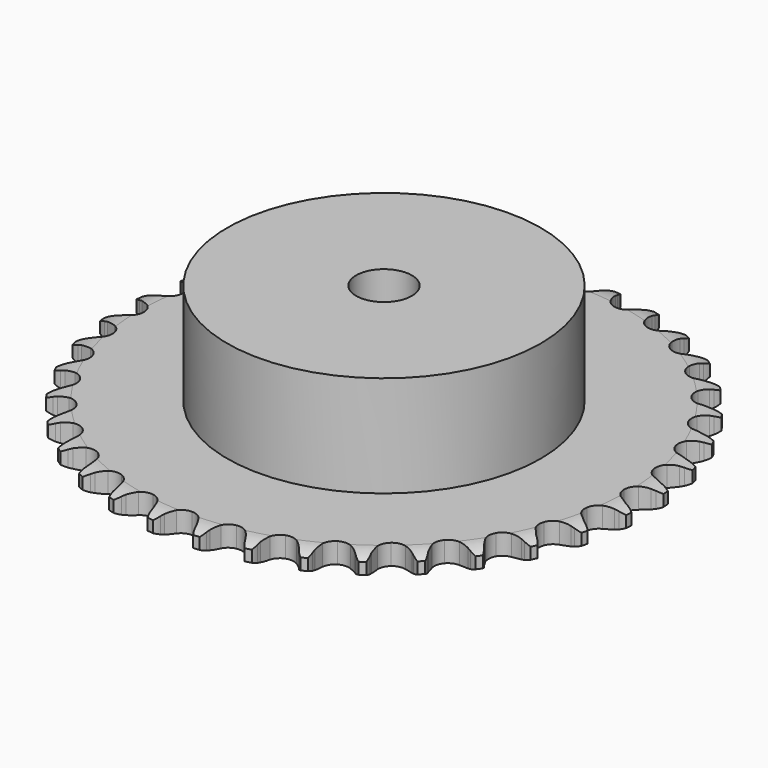
from build123d import *

# Parameters (mm, degrees)
PAD_DEPTH         = 5.9
SKETCH001_R       = 45
PAD001_DEPTH      = 35
SKETCH002_R       = 8
POCKET_DEPTH      = 0.001
POCKET_DEPTH_BACK = 35.001


with BuildPart() as part:
    # Sprocket → Pad (new body)
    with BuildSketch(Plane.XY):
        with BuildLine():
            ThreePointArc((-6.708023, 76.673049), (-5.645526, 75.493021), (-4.91278, 74.084317))
            Line((-4.91278, 74.084317), (-4.534736, 73.058049))
            ThreePointArc((-4.534736, 73.058049), (-3.936112, 71.7343), (-3.154329, 70.509768))
            ThreePointArc((-3.154329, 70.509768), (-1.764892, 69.343891), (0, 68.925604))
            ThreePointArc((0, 68.925604), (1.764892, 69.343891), (3.154329, 70.509768))
            ThreePointArc((3.154329, 70.509768), (3.936112, 71.7343), (4.534736, 73.058049))
            Line((4.534736, 73.058049), (4.91278, 74.084317))
            ThreePointArc((4.91278, 74.084317), (5.645526, 75.493021), (6.708023, 76.673049))
            ThreePointArc((6.708023, 76.673049), (7.549468, 75.326448), (8.026462, 73.811905))
            Line((8.026462, 73.811905), (8.220554, 72.735582))
            ThreePointArc((8.220554, 72.735582), (8.580216, 71.327993), (9.137485, 69.98631))
            ThreePointArc((9.137485, 69.98631), (10.303361, 68.596872), (11.968806, 67.878469))
            ThreePointArc((11.968806, 67.878469), (13.779519, 67.983931), (15.350301, 68.890823))
            Line((15.350301, 68.890823), (17.15224, 71.160685))
            ThreePointArc((17.15224, 71.160685), (17.414735, 71.640632), (17.702751, 72.105714))
            ThreePointArc((17.702751, 72.105714), (18.668983, 73.365778), (19.920248, 74.343377))
            ThreePointArc((19.920248, 74.343377), (20.515075, 72.871119), (20.721825, 71.296755))
            Line((20.721825, 71.296755), (20.726067, 70.203081))
            ThreePointArc((20.726067, 70.203081), (20.83584, 68.754422), (21.151661, 67.336353))
            ThreePointArc((21.151661, 67.336353), (22.058552, 65.765571), (23.573945, 64.768882))
            ThreePointArc((23.573945, 64.768882), (25.375463, 64.558314), (27.079861, 65.178664))
            Line((27.079861, 65.178664), (29.248582, 67.101139))
            ThreePointArc((29.248582, 67.101139), (29.590432, 67.528213), (29.954832, 67.936216))
            ThreePointArc((29.954832, 67.936216), (31.125193, 69.009352), (32.527207, 69.75482))
            ThreePointArc((32.527207, 69.75482), (32.857342, 68.201637), (32.787566, 66.61529))
            Line((32.787566, 66.61529), (32.601828, 65.537494))
            ThreePointArc((32.601828, 65.537494), (32.458376, 64.091782), (32.523155, 62.640415))
            ThreePointArc((32.523155, 62.640415), (33.143505, 60.936017), (34.462802, 59.691324))
            ThreePointArc((34.462802, 59.691324), (36.200386, 59.171126), (37.986613, 59.486085))
            Line((37.986613, 59.486085), (40.456221, 61.002759))
            ThreePointArc((40.456221, 61.002759), (40.867038, 61.363983), (41.296751, 61.70251))
            ThreePointArc((41.296751, 61.70251), (42.63568, 62.556111), (44.145843, 63.046797))
            ThreePointArc((44.145843, 63.046797), (44.201255, 61.459884), (43.857073, 59.909753))
            Line((43.857073, 59.909753), (43.487, 58.880584))
            ThreePointArc((43.487, 58.880584), (43.094682, 57.481746), (42.906449, 56.04118))
            ThreePointArc((42.906449, 56.04118), (43.221409, 54.254953), (44.304524, 52.800076))
            ThreePointArc((44.304524, 52.800076), (45.925379, 51.986052), (47.739162, 51.986052))
            Line((47.739162, 51.986052), (50.434618, 53.050841))
            ThreePointArc((50.434618, 53.050841), (50.901919, 53.33524), (51.383889, 53.594005))
            ThreePointArc((51.383889, 53.594005), (52.850702, 54.202136), (54.42313, 54.42313))
            ThreePointArc((54.42313, 54.42313), (54.202136, 52.850702), (53.594005, 51.383889))
            Line((53.594005, 51.383889), (53.050841, 50.434618))
            ThreePointArc((53.050841, 50.434618), (52.421577, 49.125156), (51.986052, 47.739162))
            ThreePointArc((51.986052, 47.739162), (51.986052, 45.925379), (52.800076, 44.304524))
            ThreePointArc((52.800076, 44.304524), (54.254953, 43.221409), (56.04118, 42.906449))
            Line((56.04118, 42.906449), (58.880584, 43.487))
            ThreePointArc((58.880584, 43.487), (59.390172, 43.685932), (59.909753, 43.857073))
            ThreePointArc((59.909753, 43.857073), (61.459884, 44.201255), (63.046797, 44.145843))
            ThreePointArc((63.046797, 44.145843), (62.556111, 42.63568), (61.70251, 41.296751))
            Line((61.70251, 41.296751), (61.002759, 40.456221))
            ThreePointArc((61.002759, 40.456221), (60.15567, 39.275923), (59.486085, 37.986613))
            ThreePointArc((59.486085, 37.986613), (59.171126, 36.200386), (59.691324, 34.462802))
            ThreePointArc((59.691324, 34.462802), (60.936017, 33.143505), (62.640415, 32.523155))
            Line((62.640415, 32.523155), (65.537494, 32.601828))
            ThreePointArc((65.537494, 32.601828), (66.073884, 32.70925), (66.61529, 32.787566))
            ThreePointArc((66.61529, 32.787566), (68.201637, 32.857342), (69.75482, 32.527207))
            ThreePointArc((69.75482, 32.527207), (69.009352, 31.125193), (67.936216, 29.954832))
            Line((67.936216, 29.954832), (67.101139, 29.248582))
            ThreePointArc((67.101139, 29.248582), (66.061962, 28.233311), (65.178664, 27.079861))
            ThreePointArc((65.178664, 27.079861), (64.558314, 25.375463), (64.768882, 23.573945))
            ThreePointArc((64.768882, 23.573945), (65.765571, 22.058552), (67.336353, 21.151661))
            Line((67.336353, 21.151661), (70.203081, 20.726067))
            ThreePointArc((70.203081, 20.726067), (70.749975, 20.738713), (71.296755, 20.721825))
            ThreePointArc((71.296755, 20.721825), (72.871119, 20.515075), (74.343377, 19.920248))
            ThreePointArc((74.343377, 19.920248), (73.365778, 18.668983), (72.105714, 17.702751))
            Line((72.105714, 17.702751), (71.160685, 17.15224))
            ThreePointArc((71.160685, 17.15224), (69.960996, 16.332844), (68.890823, 15.350301))
            ThreePointArc((68.890823, 15.350301), (67.983931, 13.779519), (67.878469, 11.968806))
            ThreePointArc((67.878469, 11.968806), (68.596872, 10.303361), (69.98631, 9.137485))
            Line((69.98631, 9.137485), (72.735582, 8.220554))
            ThreePointArc((72.735582, 8.220554), (73.276364, 8.138041), (73.811905, 8.026462))
            ThreePointArc((73.811905, 8.026462), (75.326448, 7.549468), (76.673049, 6.708023))
            ThreePointArc((76.673049, 6.708023), (75.493021, 5.645526), (74.084317, 4.91278))
            Line((74.084317, 4.91278), (73.058049, 4.534736))
            ThreePointArc((73.058049, 4.534736), (71.7343, 3.936112), (70.509768, 3.154329))
            ThreePointArc((70.509768, 3.154329), (69.343891, 1.764892), (68.925604, 0))
            ThreePointArc((68.925604, 0), (69.343891, -1.764892), (70.509768, -3.154329))
            Line((70.509768, -3.154329), (73.058049, -4.534736))
            ThreePointArc((73.058049, -4.534736), (73.576287, -4.709901), (74.084317, -4.91278))
            ThreePointArc((74.084317, -4.91278), (75.493021, -5.645526), (76.673049, -6.708023))
            ThreePointArc((76.673049, -6.708023), (75.326448, -7.549468), (73.811905, -8.026462))
            Line((73.811905, -8.026462), (72.735582, -8.220554))
            ThreePointArc((72.735582, -8.220554), (71.327993, -8.580216), (69.98631, -9.137485))
            ThreePointArc((69.98631, -9.137485), (68.596872, -10.303361), (67.878469, -11.968806))
            ThreePointArc((67.878469, -11.968806), (67.983931, -13.779519), (68.890823, -15.350301))
            Line((68.890823, -15.350301), (71.160685, -17.15224))
            ThreePointArc((71.160685, -17.15224), (71.640632, -17.414735), (72.105714, -17.702751))
            ThreePointArc((72.105714, -17.702751), (73.365778, -18.668983), (74.343377, -19.920248))
            ThreePointArc((74.343377, -19.920248), (72.871119, -20.515075), (71.296755, -20.721825))
            Line((71.296755, -20.721825), (70.203081, -20.726067))
            ThreePointArc((70.203081, -20.726067), (68.754422, -20.83584), (67.336353, -21.151661))
            ThreePointArc((67.336353, -21.151661), (65.765571, -22.058552), (64.768882, -23.573945))
            ThreePointArc((64.768882, -23.573945), (64.558314, -25.375463), (65.178664, -27.079861))
            Line((65.178664, -27.079861), (67.101139, -29.248582))
            ThreePointArc((67.101139, -29.248582), (67.528213, -29.590432), (67.936216, -29.954832))
            ThreePointArc((67.936216, -29.954832), (69.009352, -31.125193), (69.75482, -32.527207))
            ThreePointArc((69.75482, -32.527207), (68.201637, -32.857342), (66.61529, -32.787566))
            Line((66.61529, -32.787566), (65.537494, -32.601828))
            ThreePointArc((65.537494, -32.601828), (64.091782, -32.458376), (62.640415, -32.523155))
            ThreePointArc((62.640415, -32.523155), (60.936017, -33.143505), (59.691324, -34.462802))
            ThreePointArc((59.691324, -34.462802), (59.171126, -36.200386), (59.486085, -37.986613))
            Line((59.486085, -37.986613), (61.002759, -40.456221))
            ThreePointArc((61.002759, -40.456221), (61.363983, -40.867038), (61.70251, -41.296751))
            ThreePointArc((61.70251, -41.296751), (62.556111, -42.63568), (63.046797, -44.145843))
            ThreePointArc((63.046797, -44.145843), (61.459884, -44.201255), (59.909753, -43.857073))
            Line((59.909753, -43.857073), (58.880584, -43.487))
            ThreePointArc((58.880584, -43.487), (57.481746, -43.094682), (56.04118, -42.906449))
            ThreePointArc((56.04118, -42.906449), (54.254953, -43.221409), (52.800076, -44.304524))
            ThreePointArc((52.800076, -44.304524), (51.986052, -45.925379), (51.986052, -47.739162))
            Line((51.986052, -47.739162), (53.050841, -50.434618))
            ThreePointArc((53.050841, -50.434618), (53.33524, -50.901919), (53.594005, -51.383889))
            ThreePointArc((53.594005, -51.383889), (54.202136, -52.850702), (54.42313, -54.42313))
            ThreePointArc((54.42313, -54.42313), (52.850702, -54.202136), (51.383889, -53.594005))
            Line((51.383889, -53.594005), (50.434618, -53.050841))
            ThreePointArc((50.434618, -53.050841), (49.125156, -52.421577), (47.739162, -51.986052))
            ThreePointArc((47.739162, -51.986052), (45.925379, -51.986052), (44.304524, -52.800076))
            ThreePointArc((44.304524, -52.800076), (43.221409, -54.254953), (42.906449, -56.04118))
            Line((42.906449, -56.04118), (43.487, -58.880584))
            ThreePointArc((43.487, -58.880584), (43.685932, -59.390172), (43.857073, -59.909753))
            ThreePointArc((43.857073, -59.909753), (44.201255, -61.459884), (44.145843, -63.046797))
            ThreePointArc((44.145843, -63.046797), (42.63568, -62.556111), (41.296751, -61.70251))
            Line((41.296751, -61.70251), (40.456221, -61.002759))
            ThreePointArc((40.456221, -61.002759), (39.275923, -60.15567), (37.986613, -59.486085))
            ThreePointArc((37.986613, -59.486085), (36.200386, -59.171126), (34.462802, -59.691324))
            ThreePointArc((34.462802, -59.691324), (33.143505, -60.936017), (32.523155, -62.640415))
            Line((32.523155, -62.640415), (32.601828, -65.537494))
            ThreePointArc((32.601828, -65.537494), (32.70925, -66.073884), (32.787566, -66.61529))
            ThreePointArc((32.787566, -66.61529), (32.857342, -68.201637), (32.527207, -69.75482))
            ThreePointArc((32.527207, -69.75482), (31.125193, -69.009352), (29.954832, -67.936216))
            Line((29.954832, -67.936216), (29.248582, -67.101139))
            ThreePointArc((29.248582, -67.101139), (28.233311, -66.061962), (27.079861, -65.178664))
            ThreePointArc((27.079861, -65.178664), (25.375463, -64.558314), (23.573945, -64.768882))
            ThreePointArc((23.573945, -64.768882), (22.058552, -65.765571), (21.151661, -67.336353))
            Line((21.151661, -67.336353), (20.726067, -70.203081))
            ThreePointArc((20.726067, -70.203081), (20.738713, -70.749975), (20.721825, -71.296755))
            ThreePointArc((20.721825, -71.296755), (20.515075, -72.871119), (19.920248, -74.343377))
            ThreePointArc((19.920248, -74.343377), (18.668983, -73.365778), (17.702751, -72.105714))
            Line((17.702751, -72.105714), (17.15224, -71.160685))
            ThreePointArc((17.15224, -71.160685), (16.332844, -69.960996), (15.350301, -68.890823))
            ThreePointArc((15.350301, -68.890823), (13.779519, -67.983931), (11.968806, -67.878469))
            ThreePointArc((11.968806, -67.878469), (10.303361, -68.596872), (9.137485, -69.98631))
            Line((9.137485, -69.98631), (8.220554, -72.735582))
            ThreePointArc((8.220554, -72.735582), (8.138041, -73.276364), (8.026462, -73.811905))
            ThreePointArc((8.026462, -73.811905), (7.549468, -75.326448), (6.708023, -76.673049))
            ThreePointArc((6.708023, -76.673049), (5.645526, -75.493021), (4.91278, -74.084317))
            Line((4.91278, -74.084317), (4.534736, -73.058049))
            ThreePointArc((4.534736, -73.058049), (3.936112, -71.7343), (3.154329, -70.509768))
            ThreePointArc((3.154329, -70.509768), (1.764892, -69.343891), (0, -68.925604))
            ThreePointArc((0, -68.925604), (-1.764892, -69.343891), (-3.154329, -70.509768))
            Line((-3.154329, -70.509768), (-4.534736, -73.058049))
            ThreePointArc((-4.534736, -73.058049), (-4.709901, -73.576287), (-4.91278, -74.084317))
            ThreePointArc((-4.91278, -74.084317), (-5.645526, -75.493021), (-6.708023, -76.673049))
            ThreePointArc((-6.708023, -76.673049), (-7.549468, -75.326448), (-8.026462, -73.811905))
            Line((-8.026462, -73.811905), (-8.220554, -72.735582))
            ThreePointArc((-8.220554, -72.735582), (-8.580216, -71.327993), (-9.137485, -69.98631))
            ThreePointArc((-9.137485, -69.98631), (-10.303361, -68.596872), (-11.968806, -67.878469))
            ThreePointArc((-11.968806, -67.878469), (-13.779519, -67.983931), (-15.350301, -68.890823))
            Line((-15.350301, -68.890823), (-17.15224, -71.160685))
            ThreePointArc((-17.15224, -71.160685), (-17.414735, -71.640632), (-17.702751, -72.105714))
            ThreePointArc((-17.702751, -72.105714), (-18.668983, -73.365778), (-19.920248, -74.343377))
            ThreePointArc((-19.920248, -74.343377), (-20.515075, -72.871119), (-20.721825, -71.296755))
            Line((-20.721825, -71.296755), (-20.726067, -70.203081))
            ThreePointArc((-20.726067, -70.203081), (-20.83584, -68.754422), (-21.151661, -67.336353))
            ThreePointArc((-21.151661, -67.336353), (-22.058552, -65.765571), (-23.573945, -64.768882))
            ThreePointArc((-23.573945, -64.768882), (-25.375463, -64.558314), (-27.079861, -65.178664))
            Line((-27.079861, -65.178664), (-29.248582, -67.101139))
            ThreePointArc((-29.248582, -67.101139), (-29.590432, -67.528213), (-29.954832, -67.936216))
            ThreePointArc((-29.954832, -67.936216), (-31.125193, -69.009352), (-32.527207, -69.75482))
            ThreePointArc((-32.527207, -69.75482), (-32.857342, -68.201637), (-32.787566, -66.61529))
            Line((-32.787566, -66.61529), (-32.601828, -65.537494))
            ThreePointArc((-32.601828, -65.537494), (-32.458376, -64.091782), (-32.523155, -62.640415))
            ThreePointArc((-32.523155, -62.640415), (-33.143505, -60.936017), (-34.462802, -59.691324))
            ThreePointArc((-34.462802, -59.691324), (-36.200386, -59.171126), (-37.986613, -59.486085))
            Line((-37.986613, -59.486085), (-40.456221, -61.002759))
            ThreePointArc((-40.456221, -61.002759), (-40.867038, -61.363983), (-41.296751, -61.70251))
            ThreePointArc((-41.296751, -61.70251), (-42.63568, -62.556111), (-44.145843, -63.046797))
            ThreePointArc((-44.145843, -63.046797), (-44.201255, -61.459884), (-43.857073, -59.909753))
            Line((-43.857073, -59.909753), (-43.487, -58.880584))
            ThreePointArc((-43.487, -58.880584), (-43.094682, -57.481746), (-42.906449, -56.04118))
            ThreePointArc((-42.906449, -56.04118), (-43.221409, -54.254953), (-44.304524, -52.800076))
            ThreePointArc((-44.304524, -52.800076), (-45.925379, -51.986052), (-47.739162, -51.986052))
            Line((-47.739162, -51.986052), (-50.434618, -53.050841))
            ThreePointArc((-50.434618, -53.050841), (-50.901919, -53.33524), (-51.383889, -53.594005))
            ThreePointArc((-51.383889, -53.594005), (-52.850702, -54.202136), (-54.42313, -54.42313))
            ThreePointArc((-54.42313, -54.42313), (-54.202136, -52.850702), (-53.594005, -51.383889))
            Line((-53.594005, -51.383889), (-53.050841, -50.434618))
            ThreePointArc((-53.050841, -50.434618), (-52.421577, -49.125156), (-51.986052, -47.739162))
            ThreePointArc((-51.986052, -47.739162), (-51.986052, -45.925379), (-52.800076, -44.304524))
            ThreePointArc((-52.800076, -44.304524), (-54.254953, -43.221409), (-56.04118, -42.906449))
            Line((-56.04118, -42.906449), (-58.880584, -43.487))
            ThreePointArc((-58.880584, -43.487), (-59.390172, -43.685932), (-59.909753, -43.857073))
            ThreePointArc((-59.909753, -43.857073), (-61.459884, -44.201255), (-63.046797, -44.145843))
            ThreePointArc((-63.046797, -44.145843), (-62.556111, -42.63568), (-61.70251, -41.296751))
            Line((-61.70251, -41.296751), (-61.002759, -40.456221))
            ThreePointArc((-61.002759, -40.456221), (-60.15567, -39.275923), (-59.486085, -37.986613))
            ThreePointArc((-59.486085, -37.986613), (-59.171126, -36.200386), (-59.691324, -34.462802))
            ThreePointArc((-59.691324, -34.462802), (-60.936017, -33.143505), (-62.640415, -32.523155))
            Line((-62.640415, -32.523155), (-65.537494, -32.601828))
            ThreePointArc((-65.537494, -32.601828), (-66.073884, -32.70925), (-66.61529, -32.787566))
            ThreePointArc((-66.61529, -32.787566), (-68.201637, -32.857342), (-69.75482, -32.527207))
            ThreePointArc((-69.75482, -32.527207), (-69.009352, -31.125193), (-67.936216, -29.954832))
            Line((-67.936216, -29.954832), (-67.101139, -29.248582))
            ThreePointArc((-67.101139, -29.248582), (-66.061962, -28.233311), (-65.178664, -27.079861))
            ThreePointArc((-65.178664, -27.079861), (-64.558314, -25.375463), (-64.768882, -23.573945))
            ThreePointArc((-64.768882, -23.573945), (-65.765571, -22.058552), (-67.336353, -21.151661))
            Line((-67.336353, -21.151661), (-70.203081, -20.726067))
            ThreePointArc((-70.203081, -20.726067), (-70.749975, -20.738713), (-71.296755, -20.721825))
            ThreePointArc((-71.296755, -20.721825), (-72.871119, -20.515075), (-74.343377, -19.920248))
            ThreePointArc((-74.343377, -19.920248), (-73.365778, -18.668983), (-72.105714, -17.702751))
            Line((-72.105714, -17.702751), (-71.160685, -17.15224))
            ThreePointArc((-71.160685, -17.15224), (-69.960996, -16.332844), (-68.890823, -15.350301))
            ThreePointArc((-68.890823, -15.350301), (-67.983931, -13.779519), (-67.878469, -11.968806))
            ThreePointArc((-67.878469, -11.968806), (-68.596872, -10.303361), (-69.98631, -9.137485))
            Line((-69.98631, -9.137485), (-72.735582, -8.220554))
            ThreePointArc((-72.735582, -8.220554), (-73.276364, -8.138041), (-73.811905, -8.026462))
            ThreePointArc((-73.811905, -8.026462), (-75.326448, -7.549468), (-76.673049, -6.708023))
            ThreePointArc((-76.673049, -6.708023), (-75.493021, -5.645526), (-74.084317, -4.91278))
            Line((-74.084317, -4.91278), (-73.058049, -4.534736))
            ThreePointArc((-73.058049, -4.534736), (-71.7343, -3.936112), (-70.509768, -3.154329))
            ThreePointArc((-70.509768, -3.154329), (-69.343891, -1.764892), (-68.925604, 0))
            ThreePointArc((-68.925604, 0), (-69.343891, 1.764892), (-70.509768, 3.154329))
            Line((-70.509768, 3.154329), (-73.058049, 4.534736))
            ThreePointArc((-73.058049, 4.534736), (-73.576287, 4.709901), (-74.084317, 4.91278))
            ThreePointArc((-74.084317, 4.91278), (-75.493021, 5.645526), (-76.673049, 6.708023))
            ThreePointArc((-76.673049, 6.708023), (-75.326448, 7.549468), (-73.811905, 8.026462))
            Line((-73.811905, 8.026462), (-72.735582, 8.220554))
            ThreePointArc((-72.735582, 8.220554), (-71.327993, 8.580216), (-69.98631, 9.137485))
            ThreePointArc((-69.98631, 9.137485), (-68.596872, 10.303361), (-67.878469, 11.968806))
            ThreePointArc((-67.878469, 11.968806), (-67.983931, 13.779519), (-68.890823, 15.350301))
            Line((-68.890823, 15.350301), (-71.160685, 17.15224))
            ThreePointArc((-71.160685, 17.15224), (-71.640632, 17.414735), (-72.105714, 17.702751))
            ThreePointArc((-72.105714, 17.702751), (-73.365778, 18.668983), (-74.343377, 19.920248))
            ThreePointArc((-74.343377, 19.920248), (-72.871119, 20.515075), (-71.296755, 20.721825))
            Line((-71.296755, 20.721825), (-70.203081, 20.726067))
            ThreePointArc((-70.203081, 20.726067), (-68.754422, 20.83584), (-67.336353, 21.151661))
            ThreePointArc((-67.336353, 21.151661), (-65.765571, 22.058552), (-64.768882, 23.573945))
            ThreePointArc((-64.768882, 23.573945), (-64.558314, 25.375463), (-65.178664, 27.079861))
            Line((-65.178664, 27.079861), (-67.101139, 29.248582))
            ThreePointArc((-67.101139, 29.248582), (-67.528213, 29.590432), (-67.936216, 29.954832))
            ThreePointArc((-67.936216, 29.954832), (-69.009352, 31.125193), (-69.75482, 32.527207))
            ThreePointArc((-69.75482, 32.527207), (-68.201637, 32.857342), (-66.61529, 32.787566))
            Line((-66.61529, 32.787566), (-65.537494, 32.601828))
            ThreePointArc((-65.537494, 32.601828), (-64.091782, 32.458376), (-62.640415, 32.523155))
            ThreePointArc((-62.640415, 32.523155), (-60.936017, 33.143505), (-59.691324, 34.462802))
            ThreePointArc((-59.691324, 34.462802), (-59.171126, 36.200386), (-59.486085, 37.986613))
            Line((-59.486085, 37.986613), (-61.002759, 40.456221))
            ThreePointArc((-61.002759, 40.456221), (-61.363983, 40.867038), (-61.70251, 41.296751))
            ThreePointArc((-61.70251, 41.296751), (-62.556111, 42.63568), (-63.046797, 44.145843))
            ThreePointArc((-63.046797, 44.145843), (-61.459884, 44.201255), (-59.909753, 43.857073))
            Line((-59.909753, 43.857073), (-58.880584, 43.487))
            ThreePointArc((-58.880584, 43.487), (-57.481746, 43.094682), (-56.04118, 42.906449))
            ThreePointArc((-56.04118, 42.906449), (-54.254953, 43.221409), (-52.800076, 44.304524))
            ThreePointArc((-52.800076, 44.304524), (-51.986052, 45.925379), (-51.986052, 47.739162))
            Line((-51.986052, 47.739162), (-53.050841, 50.434618))
            ThreePointArc((-53.050841, 50.434618), (-53.33524, 50.901919), (-53.594005, 51.383889))
            ThreePointArc((-53.594005, 51.383889), (-54.202136, 52.850702), (-54.42313, 54.42313))
            ThreePointArc((-54.42313, 54.42313), (-52.850702, 54.202136), (-51.383889, 53.594005))
            Line((-51.383889, 53.594005), (-50.434618, 53.050841))
            ThreePointArc((-50.434618, 53.050841), (-49.125156, 52.421577), (-47.739162, 51.986052))
            ThreePointArc((-47.739162, 51.986052), (-45.925379, 51.986052), (-44.304524, 52.800076))
            ThreePointArc((-44.304524, 52.800076), (-43.221409, 54.254953), (-42.906449, 56.04118))
            Line((-42.906449, 56.04118), (-43.487, 58.880584))
            ThreePointArc((-43.487, 58.880584), (-43.685932, 59.390172), (-43.857073, 59.909753))
            ThreePointArc((-43.857073, 59.909753), (-44.201255, 61.459884), (-44.145843, 63.046797))
            ThreePointArc((-44.145843, 63.046797), (-42.63568, 62.556111), (-41.296751, 61.70251))
            Line((-41.296751, 61.70251), (-40.456221, 61.002759))
            ThreePointArc((-40.456221, 61.002759), (-39.275923, 60.15567), (-37.986613, 59.486085))
            ThreePointArc((-37.986613, 59.486085), (-36.200386, 59.171126), (-34.462802, 59.691324))
            ThreePointArc((-34.462802, 59.691324), (-33.143505, 60.936017), (-32.523155, 62.640415))
            Line((-32.523155, 62.640415), (-32.601828, 65.537494))
            ThreePointArc((-32.601828, 65.537494), (-32.70925, 66.073884), (-32.787566, 66.61529))
            ThreePointArc((-32.787566, 66.61529), (-32.857342, 68.201637), (-32.527207, 69.75482))
            ThreePointArc((-32.527207, 69.75482), (-31.125193, 69.009352), (-29.954832, 67.936216))
            Line((-29.954832, 67.936216), (-29.248582, 67.101139))
            ThreePointArc((-29.248582, 67.101139), (-28.233311, 66.061962), (-27.079861, 65.178664))
            ThreePointArc((-27.079861, 65.178664), (-25.375463, 64.558314), (-23.573945, 64.768882))
            ThreePointArc((-23.573945, 64.768882), (-22.058552, 65.765571), (-21.151661, 67.336353))
            Line((-21.151661, 67.336353), (-20.726067, 70.203081))
            ThreePointArc((-20.726067, 70.203081), (-20.738713, 70.749975), (-20.721825, 71.296755))
            ThreePointArc((-20.721825, 71.296755), (-20.515075, 72.871119), (-19.920248, 74.343377))
            ThreePointArc((-19.920248, 74.343377), (-18.668983, 73.365778), (-17.702751, 72.105714))
            Line((-17.702751, 72.105714), (-17.15224, 71.160685))
            ThreePointArc((-17.15224, 71.160685), (-16.332844, 69.960996), (-15.350301, 68.890823))
            ThreePointArc((-15.350301, 68.890823), (-13.779519, 67.983931), (-11.968806, 67.878469))
            ThreePointArc((-11.968806, 67.878469), (-10.303361, 68.596872), (-9.137485, 69.98631))
            Line((-9.137485, 69.98631), (-8.220554, 72.735582))
            ThreePointArc((-8.220554, 72.735582), (-8.138041, 73.276364), (-8.026462, 73.811905))
            ThreePointArc((-8.026462, 73.811905), (-7.549468, 75.326448), (-6.708023, 76.673049))
        make_face()
    extrude(amount=PAD_DEPTH)

    # Sketch → Groove (revolve, cut)
    with BuildSketch(Plane.XZ):
        with BuildLine():
            Line((70.183431, 0), (75.85, 0))
            Line((81.516569, 0), (75.85, 0))
            Line((81.516569, 5.9), (81.516569, 0))
            Line((75.85, 5.9), (81.516569, 5.9))
            Line((70.183431, 5.9), (75.85, 5.9))
            ThreePointArc((75.85, 4.6), (73.09032, 5.570833), (70.183431, 5.9))
            Line((75.85, 1.3), (75.85, 4.6))
            ThreePointArc((70.183431, 0), (73.09032, 0.329167), (75.85, 1.3))
        make_face()
    revolve(axis=Axis((0, 0, 0), (0, 0, 1)), mode=Mode.SUBTRACT)

    # Sketch001 → Pad001 (join)
    with BuildSketch(Plane.XY):
        Circle(SKETCH001_R)
    extrude(amount=PAD001_DEPTH)

    # Sketch002 → Pocket (cut, two sides)
    with BuildSketch(Plane.XY) as pocket_sk:
        Circle(SKETCH002_R)
    extrude(amount=-POCKET_DEPTH, mode=Mode.SUBTRACT)
    extrude(pocket_sk.sketch, amount=POCKET_DEPTH_BACK, mode=Mode.SUBTRACT)


solid = part.part
